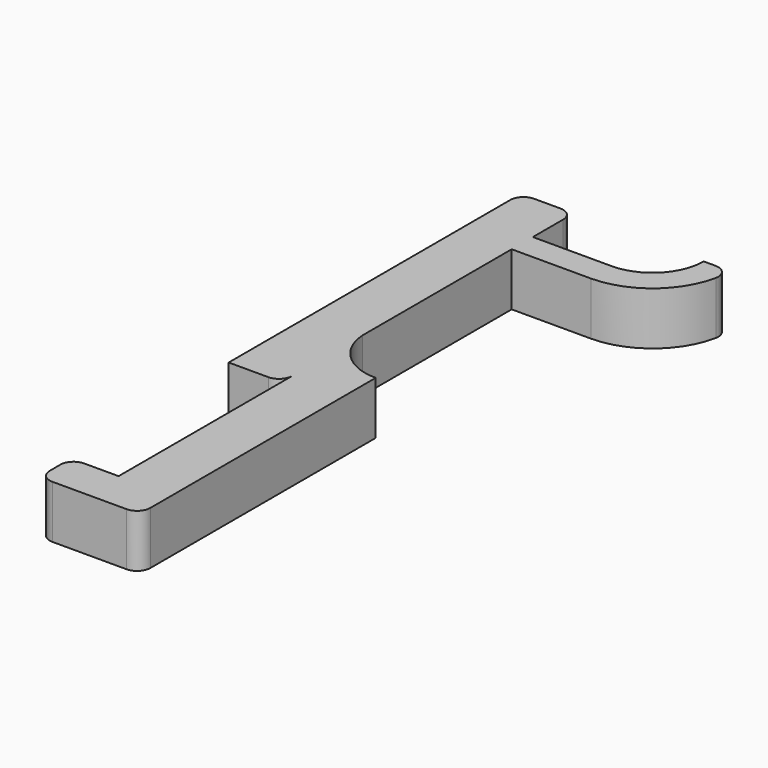
from build123d import *

# Parameters (mm, degrees)
F0_W     = 30
F0_H     = 10
F1_DEPTH = 20


with BuildPart() as f1:
    # F0 (on Top) → F1 (new body)
    with BuildSketch(Plane.XY):
        with BuildLine():
            Line((-108.254773, 37.305913), (-121.254773, 37.305913))
            ThreePointArc((-121.254773, 37.305913), (-124.790307, 35.841447), (-126.254773, 32.305913))
            Line((-126.254773, 32.305913), (-126.254773, 27.305913))
            ThreePointArc((-126.254773, 27.305913), (-124.790307, 23.77038), (-121.254773, 22.305913))
            Line((-121.254773, 22.305913), (-108.254773, 22.305913))
            Line((-108.254773, 22.305913), (-108.254773, 37.305913))
        make_face()
        with BuildLine():
            Line((-78.254773, 232.975105), (-78.254773, 222.975105))
            ThreePointArc((-78.254773, 222.975105), (-59.910796, 229.607596), (-49.78291, 246.278449))
            ThreePointArc((-49.78291, 246.278449), (-50.794365, 250.457316), (-54.676203, 252.305913))
            Line((-54.676203, 252.305913), (-59.156447, 252.305913))
            ThreePointArc((-59.156447, 252.305913), (-64.736278, 238.718914), (-78.254773, 232.975105))
        make_face()
        with BuildLine():
            Line((-108.254773, 152.463749), (-108.254773, 129.305913))
            Line((-108.254773, 129.305913), (-88.254773, 129.305913))
            Line((-88.254773, 129.305913), (-88.254773, 133.745585))
            ThreePointArc((-88.254773, 133.745585), (-101.951211, 139.155094), (-108.254773, 152.463749))
        make_face()
        with BuildLine():
            ThreePointArc((-113.254773, 114.305913), (-109.719239, 115.77038), (-108.254773, 119.305913))
            Line((-108.254773, 119.305913), (-108.254773, 129.305913))
            Line((-108.254773, 129.305913), (-128.254773, 129.305913))
            Line((-128.254773, 129.305913), (-128.254773, 114.305913))
            Line((-128.254773, 114.305913), (-113.254773, 114.305913))
        make_face()
        with Locations((-93.254773, 227.975105)):
            Rectangle(F0_W, F0_H)
        with BuildLine():
            Line((-108.254773, 119.305913), (-108.254773, 37.305913))
            Line((-108.254773, 37.305913), (-108.254773, 22.305913))
            Line((-108.254773, 22.305913), (-93.254773, 22.305913))
            ThreePointArc((-93.254773, 22.305913), (-89.719239, 23.77038), (-88.254773, 27.305913))
            Line((-88.254773, 27.305913), (-88.254773, 129.305913))
            Line((-88.254773, 129.305913), (-108.254773, 129.305913))
            Line((-108.254773, 129.305913), (-108.254773, 119.305913))
        make_face()
        with BuildLine():
            Line((-128.254773, 129.305913), (-108.254773, 129.305913))
            Line((-108.254773, 129.305913), (-108.254773, 152.463749))
            Line((-108.254773, 152.463749), (-108.254773, 222.975105))
            Line((-108.254773, 222.975105), (-108.254773, 232.975105))
            Line((-108.254773, 232.975105), (-108.254773, 247.305913))
            ThreePointArc((-108.254773, 247.305913), (-109.719239, 250.841447), (-113.254773, 252.305913))
            Line((-113.254773, 252.305913), (-123.254773, 252.305913))
            ThreePointArc((-123.254773, 252.305913), (-126.790307, 250.841447), (-128.254773, 247.305913))
            Line((-128.254773, 247.305913), (-128.254773, 129.305913))
        make_face()
    extrude(amount=F1_DEPTH)


solid = f1.part
